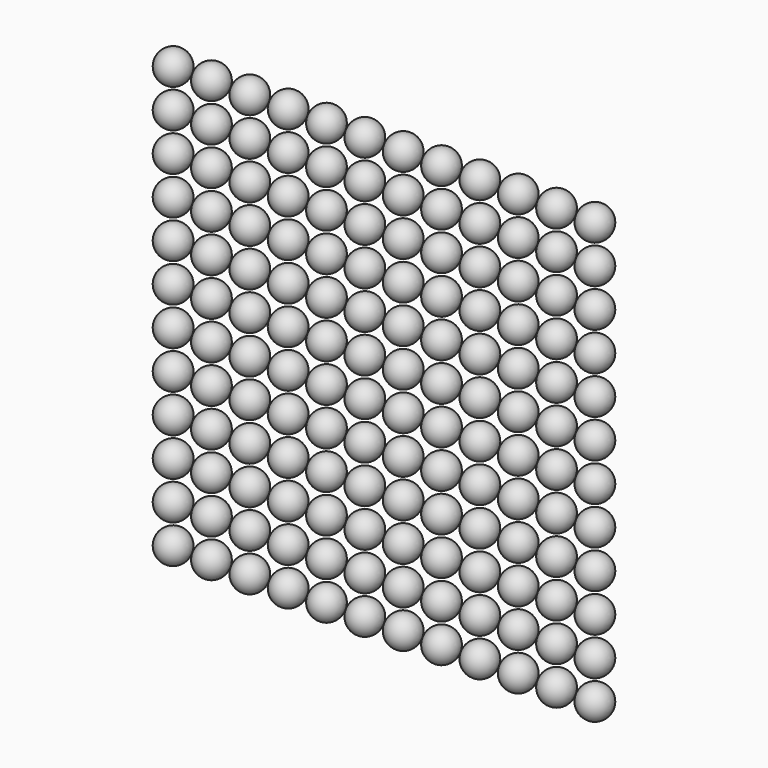
from build123d import *

# Parameters (mm, degrees)
ARRAY_X_COUNT = 12
ARRAY_X_PITCH = 5.99948
ARRAY_Z_COUNT = 12
ARRAY_Z_PITCH = 6


with BuildPart() as part:
    # Sphere002 → Sphere002 (revolve)
    with BuildSketch(Plane(origin=(33.35528, 27.5082, 79.5528), x_dir=(1, 0, 0), z_dir=(0, -1, 0))):
        with BuildLine():
            ThreePointArc((0, -2.5), (2.5, 0), (0, 2.5))
            Line((0, 2.5), (0, -2.5))
        make_face()
    revolve(axis=Axis((33.35528, 27.5082, 79.5528), (0, 0, 1)))

    # Array X: part ×12


with BuildPart() as part_1:
    add(part.part)
    with Locations(*[(-i * ARRAY_X_PITCH, 0, 0) for i in range(1, ARRAY_X_COUNT)]):
        add(part.part)

    # Array Z: part ×12


with BuildPart() as part_2:
    add(part_1.part)
    with Locations(*[(0, 0, -i * ARRAY_Z_PITCH) for i in range(1, ARRAY_Z_COUNT)]):
        add(part_1.part)


solid = part_2.part
